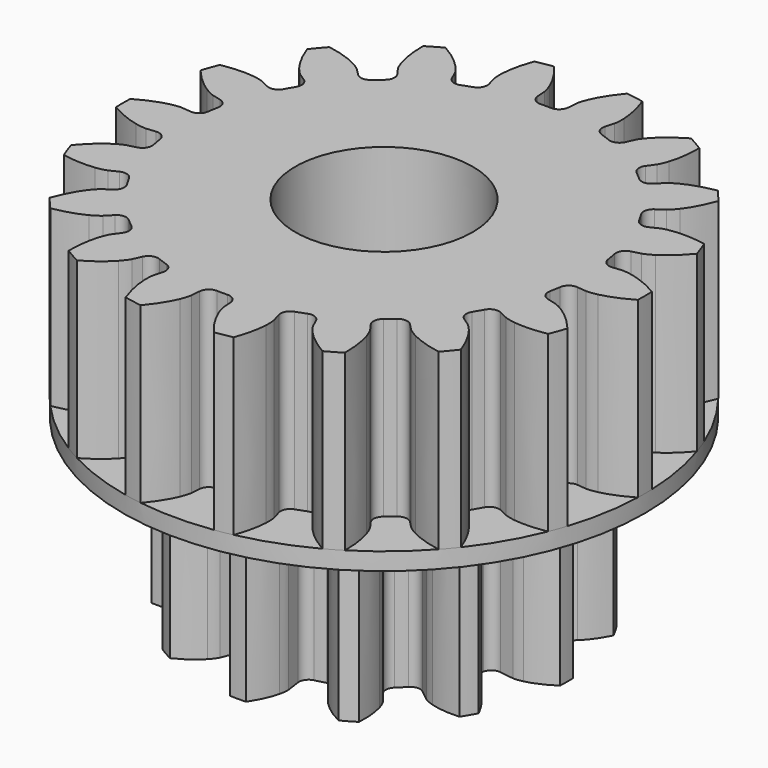
from build123d import *

# Parameters (mm, degrees)
PAD006_DEPTH    = 10
SKETCH009_R     = 15
PAD004_DEPTH    = 1
PAD005_DEPTH    = 10
SKETCH010_R     = 4
POCKET005_DEPTH = 22.001
SKETCH011_R     = 5.1
POCKET006_DEPTH = 7
SKETCH012_R     = 5.1
POCKET007_DEPTH = 7
CHAMFER006_SIZE = 1


with BuildPart() as pad004:
    # InvoluteGear001 → Pad006 (new body)
    with BuildSketch(Plane.XY):
        with BuildLine():
            Line((7.585543, -1.113908), (8.391342, -1.230997))
            add(Edge.make_bspline(
                [(8.391342, -1.230997), (8.453372, -1.235413), (8.639606, -1.239539), (8.952693, -1.168255)],
                knots=[0, 0, 0, 0, 1, 1, 1, 1], degree=3))
            add(Edge.make_bspline(
                [(8.952693, -1.168255), (9.32537, -1.081215), (9.856035, -0.88794), (10.49177, -0.464635)],
                knots=[0, 0, 0, 0, 1, 1, 1, 1], degree=3))
            ThreePointArc((10.49177, -0.464635), (10.502056, 0), (10.49177, 0.464635))
            add(Edge.make_bspline(
                [(10.49177, 0.464635), (9.856035, 0.88794), (9.32537, 1.081215), (8.952693, 1.168255)],
                knots=[0, 0, 0, 0, 1, 1, 1, 1], degree=3))
            add(Edge.make_bspline(
                [(8.952693, 1.168255), (8.639606, 1.239539), (8.453372, 1.235413), (8.391342, 1.230997)],
                knots=[0, 0, 0, 0, 1, 1, 1, 1], degree=3))
            Line((8.391342, 1.230997), (7.585543, 1.113908))
            ThreePointArc((7.585543, 1.113908), (7.1854, 1.20674), (6.955061, 1.546852))
            ThreePointArc((6.955061, 1.546852), (6.882222, 1.844086), (6.796685, 2.137918))
            ThreePointArc((6.796685, 2.137918), (6.826109, 2.547633), (7.126227, 2.828099))
            Line((7.126227, 2.828099), (7.882613, 3.129596))
            add(Edge.make_bspline(
                [(7.882613, 3.129596), (7.938542, 3.156787), (8.101888, 3.246331), (8.337387, 3.464608)],
                knots=[0, 0, 0, 0, 1, 1, 1, 1], degree=3))
            add(Edge.make_bspline(
                [(8.337387, 3.464608), (8.616615, 3.726326), (8.979547, 4.159039), (9.318457, 4.8435)],
                knots=[0, 0, 0, 0, 1, 1, 1, 1], degree=3))
            ThreePointArc((9.318457, 4.8435), (9.095047, 5.251028), (8.853822, 5.648271))
            add(Edge.make_bspline(
                [(8.853822, 5.648271), (8.091607, 5.696996), (7.5354, 5.599044), (7.169132, 5.488085)],
                knots=[0, 0, 0, 0, 1, 1, 1, 1], degree=3))
            add(Edge.make_bspline(
                [(7.169132, 5.488085), (6.862349, 5.393276), (6.703128, 5.296585), (6.651617, 5.261745)],
                knots=[0, 0, 0, 0, 1, 1, 1, 1], degree=3))
            Line((6.651617, 5.261745), (6.012319, 4.757444))
            ThreePointArc((6.012319, 4.757444), (5.619369, 4.637767), (5.249834, 4.817143))
            ThreePointArc((5.249834, 4.817143), (5.038136, 5.038136), (4.817143, 5.249834))
            ThreePointArc((4.817143, 5.249834), (4.637767, 5.619369), (4.757444, 6.012319))
            Line((4.757444, 6.012319), (5.261745, 6.651617))
            add(Edge.make_bspline(
                [(5.261745, 6.651617), (5.296585, 6.703128), (5.393276, 6.862349), (5.488085, 7.169132)],
                knots=[0, 0, 0, 0, 1, 1, 1, 1], degree=3))
            add(Edge.make_bspline(
                [(5.488085, 7.169132), (5.599044, 7.5354), (5.696996, 8.091607), (5.648271, 8.853822)],
                knots=[0, 0, 0, 0, 1, 1, 1, 1], degree=3))
            ThreePointArc((5.648271, 8.853822), (5.251028, 9.095047), (4.8435, 9.318457))
            add(Edge.make_bspline(
                [(4.8435, 9.318457), (4.159039, 8.979547), (3.726326, 8.616615), (3.464608, 8.337387)],
                knots=[0, 0, 0, 0, 1, 1, 1, 1], degree=3))
            add(Edge.make_bspline(
                [(3.464608, 8.337387), (3.246331, 8.101888), (3.156787, 7.938542), (3.129596, 7.882613)],
                knots=[0, 0, 0, 0, 1, 1, 1, 1], degree=3))
            Line((3.129596, 7.882613), (2.828099, 7.126227))
            ThreePointArc((2.828099, 7.126227), (2.547633, 6.826109), (2.137918, 6.796685))
            ThreePointArc((2.137918, 6.796685), (1.844086, 6.882222), (1.546852, 6.955061))
            ThreePointArc((1.546852, 6.955061), (1.20674, 7.1854), (1.113908, 7.585543))
            Line((1.113908, 7.585543), (1.230997, 8.391342))
            add(Edge.make_bspline(
                [(1.230997, 8.391342), (1.235413, 8.453372), (1.239539, 8.639606), (1.168255, 8.952693)],
                knots=[0, 0, 0, 0, 1, 1, 1, 1], degree=3))
            add(Edge.make_bspline(
                [(1.168255, 8.952693), (1.081215, 9.32537), (0.88794, 9.856035), (0.464635, 10.49177)],
                knots=[0, 0, 0, 0, 1, 1, 1, 1], degree=3))
            ThreePointArc((0.464635, 10.49177), (0, 10.502056), (-0.464635, 10.49177))
            add(Edge.make_bspline(
                [(-0.464635, 10.49177), (-0.88794, 9.856035), (-1.081215, 9.32537), (-1.168255, 8.952693)],
                knots=[0, 0, 0, 0, 1, 1, 1, 1], degree=3))
            add(Edge.make_bspline(
                [(-1.168255, 8.952693), (-1.239539, 8.639606), (-1.235413, 8.453372), (-1.230997, 8.391342)],
                knots=[0, 0, 0, 0, 1, 1, 1, 1], degree=3))
            Line((-1.230997, 8.391342), (-1.113908, 7.585543))
            ThreePointArc((-1.113908, 7.585543), (-1.20674, 7.1854), (-1.546852, 6.955061))
            ThreePointArc((-1.546852, 6.955061), (-1.844086, 6.882222), (-2.137918, 6.796685))
            ThreePointArc((-2.137918, 6.796685), (-2.547633, 6.826109), (-2.828099, 7.126227))
            Line((-2.828099, 7.126227), (-3.129596, 7.882613))
            add(Edge.make_bspline(
                [(-3.129596, 7.882613), (-3.156787, 7.938542), (-3.246331, 8.101888), (-3.464608, 8.337387)],
                knots=[0, 0, 0, 0, 1, 1, 1, 1], degree=3))
            add(Edge.make_bspline(
                [(-3.464608, 8.337387), (-3.726326, 8.616615), (-4.159039, 8.979547), (-4.8435, 9.318457)],
                knots=[0, 0, 0, 0, 1, 1, 1, 1], degree=3))
            ThreePointArc((-4.8435, 9.318457), (-5.251028, 9.095047), (-5.648271, 8.853822))
            add(Edge.make_bspline(
                [(-5.648271, 8.853822), (-5.696996, 8.091607), (-5.599044, 7.5354), (-5.488085, 7.169132)],
                knots=[0, 0, 0, 0, 1, 1, 1, 1], degree=3))
            add(Edge.make_bspline(
                [(-5.488085, 7.169132), (-5.393276, 6.862349), (-5.296585, 6.703128), (-5.261745, 6.651617)],
                knots=[0, 0, 0, 0, 1, 1, 1, 1], degree=3))
            Line((-5.261745, 6.651617), (-4.757444, 6.012319))
            ThreePointArc((-4.757444, 6.012319), (-4.637767, 5.619369), (-4.817143, 5.249834))
            ThreePointArc((-4.817143, 5.249834), (-5.038136, 5.038136), (-5.249834, 4.817143))
            ThreePointArc((-5.249834, 4.817143), (-5.619369, 4.637767), (-6.012319, 4.757444))
            Line((-6.012319, 4.757444), (-6.651617, 5.261745))
            add(Edge.make_bspline(
                [(-6.651617, 5.261745), (-6.703128, 5.296585), (-6.862349, 5.393276), (-7.169132, 5.488085)],
                knots=[0, 0, 0, 0, 1, 1, 1, 1], degree=3))
            add(Edge.make_bspline(
                [(-7.169132, 5.488085), (-7.5354, 5.599044), (-8.091607, 5.696996), (-8.853822, 5.648271)],
                knots=[0, 0, 0, 0, 1, 1, 1, 1], degree=3))
            ThreePointArc((-8.853822, 5.648271), (-9.095047, 5.251028), (-9.318457, 4.8435))
            add(Edge.make_bspline(
                [(-9.318457, 4.8435), (-8.979547, 4.159039), (-8.616615, 3.726326), (-8.337387, 3.464608)],
                knots=[0, 0, 0, 0, 1, 1, 1, 1], degree=3))
            add(Edge.make_bspline(
                [(-8.337387, 3.464608), (-8.101888, 3.246331), (-7.938542, 3.156787), (-7.882613, 3.129596)],
                knots=[0, 0, 0, 0, 1, 1, 1, 1], degree=3))
            Line((-7.882613, 3.129596), (-7.126227, 2.828099))
            ThreePointArc((-7.126227, 2.828099), (-6.826109, 2.547633), (-6.796685, 2.137918))
            ThreePointArc((-6.796685, 2.137918), (-6.882222, 1.844086), (-6.955061, 1.546852))
            ThreePointArc((-6.955061, 1.546852), (-7.1854, 1.20674), (-7.585543, 1.113908))
            Line((-7.585543, 1.113908), (-8.391342, 1.230997))
            add(Edge.make_bspline(
                [(-8.391342, 1.230997), (-8.453372, 1.235413), (-8.639606, 1.239539), (-8.952693, 1.168255)],
                knots=[0, 0, 0, 0, 1, 1, 1, 1], degree=3))
            add(Edge.make_bspline(
                [(-8.952693, 1.168255), (-9.32537, 1.081215), (-9.856035, 0.88794), (-10.49177, 0.464635)],
                knots=[0, 0, 0, 0, 1, 1, 1, 1], degree=3))
            ThreePointArc((-10.49177, 0.464635), (-10.502056, 0), (-10.49177, -0.464635))
            add(Edge.make_bspline(
                [(-10.49177, -0.464635), (-9.856035, -0.88794), (-9.32537, -1.081215), (-8.952693, -1.168255)],
                knots=[0, 0, 0, 0, 1, 1, 1, 1], degree=3))
            add(Edge.make_bspline(
                [(-8.952693, -1.168255), (-8.639606, -1.239539), (-8.453372, -1.235413), (-8.391342, -1.230997)],
                knots=[0, 0, 0, 0, 1, 1, 1, 1], degree=3))
            Line((-8.391342, -1.230997), (-7.585543, -1.113908))
            ThreePointArc((-7.585543, -1.113908), (-7.1854, -1.20674), (-6.955061, -1.546852))
            ThreePointArc((-6.955061, -1.546852), (-6.882222, -1.844086), (-6.796685, -2.137918))
            ThreePointArc((-6.796685, -2.137918), (-6.826109, -2.547633), (-7.126227, -2.828099))
            Line((-7.126227, -2.828099), (-7.882613, -3.129596))
            add(Edge.make_bspline(
                [(-7.882613, -3.129596), (-7.938542, -3.156787), (-8.101888, -3.246331), (-8.337387, -3.464608)],
                knots=[0, 0, 0, 0, 1, 1, 1, 1], degree=3))
            add(Edge.make_bspline(
                [(-8.337387, -3.464608), (-8.616615, -3.726326), (-8.979547, -4.159039), (-9.318457, -4.8435)],
                knots=[0, 0, 0, 0, 1, 1, 1, 1], degree=3))
            ThreePointArc((-9.318457, -4.8435), (-9.095047, -5.251028), (-8.853822, -5.648271))
            add(Edge.make_bspline(
                [(-8.853822, -5.648271), (-8.091607, -5.696996), (-7.5354, -5.599044), (-7.169132, -5.488085)],
                knots=[0, 0, 0, 0, 1, 1, 1, 1], degree=3))
            add(Edge.make_bspline(
                [(-7.169132, -5.488085), (-6.862349, -5.393276), (-6.703128, -5.296585), (-6.651617, -5.261745)],
                knots=[0, 0, 0, 0, 1, 1, 1, 1], degree=3))
            Line((-6.651617, -5.261745), (-6.012319, -4.757444))
            ThreePointArc((-6.012319, -4.757444), (-5.619369, -4.637767), (-5.249834, -4.817143))
            ThreePointArc((-5.249834, -4.817143), (-5.038136, -5.038136), (-4.817143, -5.249834))
            ThreePointArc((-4.817143, -5.249834), (-4.637767, -5.619369), (-4.757444, -6.012319))
            Line((-4.757444, -6.012319), (-5.261745, -6.651617))
            add(Edge.make_bspline(
                [(-5.261745, -6.651617), (-5.296585, -6.703128), (-5.393276, -6.862349), (-5.488085, -7.169132)],
                knots=[0, 0, 0, 0, 1, 1, 1, 1], degree=3))
            add(Edge.make_bspline(
                [(-5.488085, -7.169132), (-5.599044, -7.5354), (-5.696996, -8.091607), (-5.648271, -8.853822)],
                knots=[0, 0, 0, 0, 1, 1, 1, 1], degree=3))
            ThreePointArc((-5.648271, -8.853822), (-5.251028, -9.095047), (-4.8435, -9.318457))
            add(Edge.make_bspline(
                [(-4.8435, -9.318457), (-4.159039, -8.979547), (-3.726326, -8.616615), (-3.464608, -8.337387)],
                knots=[0, 0, 0, 0, 1, 1, 1, 1], degree=3))
            add(Edge.make_bspline(
                [(-3.464608, -8.337387), (-3.246331, -8.101888), (-3.156787, -7.938542), (-3.129596, -7.882613)],
                knots=[0, 0, 0, 0, 1, 1, 1, 1], degree=3))
            Line((-3.129596, -7.882613), (-2.828099, -7.126227))
            ThreePointArc((-2.828099, -7.126227), (-2.547633, -6.826109), (-2.137918, -6.796685))
            ThreePointArc((-2.137918, -6.796685), (-1.844086, -6.882222), (-1.546852, -6.955061))
            ThreePointArc((-1.546852, -6.955061), (-1.20674, -7.1854), (-1.113908, -7.585543))
            Line((-1.113908, -7.585543), (-1.230997, -8.391342))
            add(Edge.make_bspline(
                [(-1.230997, -8.391342), (-1.235413, -8.453372), (-1.239539, -8.639606), (-1.168255, -8.952693)],
                knots=[0, 0, 0, 0, 1, 1, 1, 1], degree=3))
            add(Edge.make_bspline(
                [(-1.168255, -8.952693), (-1.081215, -9.32537), (-0.88794, -9.856035), (-0.464635, -10.49177)],
                knots=[0, 0, 0, 0, 1, 1, 1, 1], degree=3))
            ThreePointArc((-0.464635, -10.49177), (0, -10.502056), (0.464635, -10.49177))
            add(Edge.make_bspline(
                [(0.464635, -10.49177), (0.88794, -9.856035), (1.081215, -9.32537), (1.168255, -8.952693)],
                knots=[0, 0, 0, 0, 1, 1, 1, 1], degree=3))
            add(Edge.make_bspline(
                [(1.168255, -8.952693), (1.239539, -8.639606), (1.235413, -8.453372), (1.230997, -8.391342)],
                knots=[0, 0, 0, 0, 1, 1, 1, 1], degree=3))
            Line((1.230997, -8.391342), (1.113908, -7.585543))
            ThreePointArc((1.113908, -7.585543), (1.20674, -7.1854), (1.546852, -6.955061))
            ThreePointArc((1.546852, -6.955061), (1.844086, -6.882222), (2.137918, -6.796685))
            ThreePointArc((2.137918, -6.796685), (2.547633, -6.826109), (2.828099, -7.126227))
            Line((2.828099, -7.126227), (3.129596, -7.882613))
            add(Edge.make_bspline(
                [(3.129596, -7.882613), (3.156787, -7.938542), (3.246331, -8.101888), (3.464608, -8.337387)],
                knots=[0, 0, 0, 0, 1, 1, 1, 1], degree=3))
            add(Edge.make_bspline(
                [(3.464608, -8.337387), (3.726326, -8.616615), (4.159039, -8.979547), (4.8435, -9.318457)],
                knots=[0, 0, 0, 0, 1, 1, 1, 1], degree=3))
            ThreePointArc((4.8435, -9.318457), (5.251028, -9.095047), (5.648271, -8.853822))
            add(Edge.make_bspline(
                [(5.648271, -8.853822), (5.696996, -8.091607), (5.599044, -7.5354), (5.488085, -7.169132)],
                knots=[0, 0, 0, 0, 1, 1, 1, 1], degree=3))
            add(Edge.make_bspline(
                [(5.488085, -7.169132), (5.393276, -6.862349), (5.296585, -6.703128), (5.261745, -6.651617)],
                knots=[0, 0, 0, 0, 1, 1, 1, 1], degree=3))
            Line((5.261745, -6.651617), (4.757444, -6.012319))
            ThreePointArc((4.757444, -6.012319), (4.637767, -5.619369), (4.817143, -5.249834))
            ThreePointArc((4.817143, -5.249834), (5.038136, -5.038136), (5.249834, -4.817143))
            ThreePointArc((5.249834, -4.817143), (5.619369, -4.637767), (6.012319, -4.757444))
            Line((6.012319, -4.757444), (6.651617, -5.261745))
            add(Edge.make_bspline(
                [(6.651617, -5.261745), (6.703128, -5.296585), (6.862349, -5.393276), (7.169132, -5.488085)],
                knots=[0, 0, 0, 0, 1, 1, 1, 1], degree=3))
            add(Edge.make_bspline(
                [(7.169132, -5.488085), (7.5354, -5.599044), (8.091607, -5.696996), (8.853822, -5.648271)],
                knots=[0, 0, 0, 0, 1, 1, 1, 1], degree=3))
            ThreePointArc((8.853822, -5.648271), (9.095047, -5.251028), (9.318457, -4.8435))
            add(Edge.make_bspline(
                [(9.318457, -4.8435), (8.979547, -4.159039), (8.616615, -3.726326), (8.337387, -3.464608)],
                knots=[0, 0, 0, 0, 1, 1, 1, 1], degree=3))
            add(Edge.make_bspline(
                [(8.337387, -3.464608), (8.101888, -3.246331), (7.938542, -3.156787), (7.882613, -3.129596)],
                knots=[0, 0, 0, 0, 1, 1, 1, 1], degree=3))
            Line((7.882613, -3.129596), (7.126227, -2.828099))
            ThreePointArc((7.126227, -2.828099), (6.826109, -2.547633), (6.796685, -2.137918))
            ThreePointArc((6.796685, -2.137918), (6.882222, -1.844086), (6.955061, -1.546852))
            ThreePointArc((6.955061, -1.546852), (7.1854, -1.20674), (7.585543, -1.113908))
        make_face()
    extrude(amount=-PAD006_DEPTH)

    # Sketch009 → Pad004 (new body)
    with BuildSketch(Plane.XY):
        Circle(SKETCH009_R)
    extrude(amount=PAD004_DEPTH)


with BuildPart() as chamfer006:
    # InvoluteGear → Pad005 (new body)
    with BuildSketch(Plane.XY.offset(1)):
        with BuildLine():
            Line((12.111023, -1.241717), (12.645761, -1.295402))
            add(Edge.make_bspline(
                [(12.645761, -1.295402), (12.714302, -1.298033), (12.920518, -1.29727), (13.264938, -1.221824)],
                knots=[0, 0, 0, 0, 1, 1, 1, 1], degree=3))
            add(Edge.make_bspline(
                [(13.264938, -1.221824), (13.676607, -1.130119), (14.26795, -0.932555), (14.993012, -0.510488)],
                knots=[0, 0, 0, 0, 1, 1, 1, 1], degree=3))
            ThreePointArc((14.993012, -0.510488), (15.001701, 0), (14.993012, 0.510488))
            add(Edge.make_bspline(
                [(14.993012, 0.510488), (14.26795, 0.932555), (13.676607, 1.130119), (13.264938, 1.221824)],
                knots=[0, 0, 0, 0, 1, 1, 1, 1], degree=3))
            add(Edge.make_bspline(
                [(13.264938, 1.221824), (12.920518, 1.29727), (12.714302, 1.298033), (12.645761, 1.295402)],
                knots=[0, 0, 0, 0, 1, 1, 1, 1], degree=3))
            Line((12.645761, 1.295402), (12.111023, 1.241717))
            ThreePointArc((12.111023, 1.241717), (11.708936, 1.356787), (11.497414, 1.717583))
            ThreePointArc((11.497414, 1.717583), (11.44839, 2.01866), (11.391483, 2.318347))
            ThreePointArc((11.391483, 2.318347), (11.46685, 2.729729), (11.805332, 2.975381))
            Line((11.805332, 2.975381), (12.326182, 3.107825))
            add(Edge.make_bspline(
                [(12.326182, 3.107825), (12.391489, 3.128796), (12.585008, 3.200042), (12.882853, 3.388737)],
                knots=[0, 0, 0, 0, 1, 1, 1, 1], degree=3))
            add(Edge.make_bspline(
                [(12.882853, 3.388737), (13.238331, 3.615711), (13.72644, 4.003611), (14.26342, 4.64821)],
                knots=[0, 0, 0, 0, 1, 1, 1, 1], degree=3))
            ThreePointArc((14.26342, 4.64821), (14.096988, 5.130884), (13.914226, 5.607614))
            add(Edge.make_bspline(
                [(13.914226, 5.607614), (13.088535, 5.756242), (12.465284, 5.73964), (12.047076, 5.685015)],
                knots=[0, 0, 0, 0, 1, 1, 1, 1], degree=3))
            add(Edge.make_bspline(
                [(12.047076, 5.685015), (11.697623, 5.638113), (11.503582, 5.568299), (11.440074, 5.542385)],
                knots=[0, 0, 0, 0, 1, 1, 1, 1], degree=3))
            Line((11.440074, 5.542385), (10.955947, 5.309046))
            ThreePointArc((10.955947, 5.309046), (10.538753, 5.279655), (10.216587, 5.546347))
            ThreePointArc((10.216587, 5.546347), (10.067545, 5.8125), (9.911571, 6.074651))
            ThreePointArc((9.911571, 6.074651), (9.841692, 6.487), (10.075743, 6.833605))
            Line((10.075743, 6.833605), (10.519883, 7.136202))
            add(Edge.make_bspline(
                [(10.519883, 7.136202), (10.57408, 7.178245), (10.73156, 7.311383), (10.946905, 7.590566)],
                knots=[0, 0, 0, 0, 1, 1, 1, 1], degree=3))
            add(Edge.make_bspline(
                [(10.946905, 7.590566), (11.203316, 7.925433), (11.529319, 8.456883), (11.813449, 9.246266)],
                knots=[0, 0, 0, 0, 1, 1, 1, 1], degree=3))
            ThreePointArc((11.813449, 9.246266), (11.49197, 9.642908), (11.157178, 10.028379))
            add(Edge.make_bspline(
                [(11.157178, 10.028379), (10.330449, 9.885641), (9.750463, 9.656875), (9.376159, 9.462509)],
                knots=[0, 0, 0, 0, 1, 1, 1, 1], degree=3))
            add(Edge.make_bspline(
                [(9.376159, 9.462509), (9.063822, 9.298916), (8.905361, 9.166947), (8.854546, 9.120874)],
                knots=[0, 0, 0, 0, 1, 1, 1, 1], degree=3))
            Line((8.854546, 9.120874), (8.479422, 8.736026))
            ThreePointArc((8.479422, 8.736026), (8.09744, 8.565718), (7.703489, 8.70614))
            ThreePointArc((7.703489, 8.70614), (7.472406, 8.905267), (7.236177, 9.098261))
            ThreePointArc((7.236177, 9.098261), (7.02948, 9.461843), (7.13087, 9.867595))
            Line((7.13087, 9.867595), (7.444732, 10.303849))
            add(Edge.make_bspline(
                [(7.444732, 10.303849), (7.48128, 10.361892), (7.583728, 10.540862), (7.690599, 10.876861)],
                knots=[0, 0, 0, 0, 1, 1, 1, 1], degree=3))
            add(Edge.make_bspline(
                [(7.690599, 10.876861), (7.817015, 11.27923), (7.941592, 11.89013), (7.938602, 12.729085)],
                knots=[0, 0, 0, 0, 1, 1, 1, 1], degree=3))
            ThreePointArc((7.938602, 12.729085), (7.500851, 12.991854), (7.05441, 13.239573))
            add(Edge.make_bspline(
                [(7.05441, 13.239573), (6.326359, 12.822685), (5.859592, 12.409349), (5.574338, 12.098685)],
                knots=[0, 0, 0, 0, 1, 1, 1, 1], degree=3))
            add(Edge.make_bspline(
                [(5.574338, 12.098685), (5.33679, 11.838132), (5.233022, 11.659925), (5.201029, 11.599251)],
                knots=[0, 0, 0, 0, 1, 1, 1, 1], degree=3))
            Line((5.201029, 11.599251), (4.980153, 11.109313))
            ThreePointArc((4.980153, 11.109313), (4.679456, 10.81863), (4.261237, 10.815844))
            ThreePointArc((4.261237, 10.815844), (3.975984, 10.923927), (3.687994, 11.024488))
            ThreePointArc((3.687994, 11.024488), (3.36941, 11.295448), (3.32591, 11.711408))
            Line((3.32591, 11.711408), (3.471636, 12.228699))
            add(Edge.make_bspline(
                [(3.471636, 12.228699), (3.486128, 12.295742), (3.521186, 12.498958), (3.506694, 12.851246)],
                knots=[0, 0, 0, 0, 1, 1, 1, 1], degree=3))
            add(Edge.make_bspline(
                [(3.506694, 12.851246), (3.487868, 13.272586), (3.395991, 13.889252), (3.106242, 14.676589)],
                knots=[0, 0, 0, 0, 1, 1, 1, 1], degree=3))
            ThreePointArc((3.106242, 14.676589), (2.605018, 14.773792), (2.100777, 14.85388))
            add(Edge.make_bspline(
                [(2.100777, 14.85388), (1.559216, 14.213125), (1.261968, 13.665072), (1.100171, 13.275581)],
                knots=[0, 0, 0, 0, 1, 1, 1, 1], degree=3))
            add(Edge.make_bspline(
                [(1.100171, 13.275581), (0.966063, 12.949495), (0.929503, 12.746544), (0.920191, 12.678587)],
                knots=[0, 0, 0, 0, 1, 1, 1, 1], degree=3))
            Line((0.920191, 12.678587), (0.880204, 12.142652))
            ThreePointArc((0.880204, 12.142652), (0.697061, 11.766655), (0.305016, 11.620998))
            ThreePointArc((0.305016, 11.620998), (0, 11.625), (-0.305016, 11.620998))
            ThreePointArc((-0.305016, 11.620998), (-0.697061, 11.766655), (-0.880204, 12.142652))
            Line((-0.880204, 12.142652), (-0.920191, 12.678587))
            add(Edge.make_bspline(
                [(-0.920191, 12.678587), (-0.929503, 12.746544), (-0.966063, 12.949495), (-1.100171, 13.275581)],
                knots=[0, 0, 0, 0, 1, 1, 1, 1], degree=3))
            add(Edge.make_bspline(
                [(-1.100171, 13.275581), (-1.261968, 13.665072), (-1.559216, 14.213125), (-2.100777, 14.85388)],
                knots=[0, 0, 0, 0, 1, 1, 1, 1], degree=3))
            ThreePointArc((-2.100777, 14.85388), (-2.605018, 14.773792), (-3.106242, 14.676589))
            add(Edge.make_bspline(
                [(-3.106242, 14.676589), (-3.395991, 13.889252), (-3.487868, 13.272586), (-3.506694, 12.851246)],
                knots=[0, 0, 0, 0, 1, 1, 1, 1], degree=3))
            add(Edge.make_bspline(
                [(-3.506694, 12.851246), (-3.521186, 12.498958), (-3.486128, 12.295742), (-3.471636, 12.228699)],
                knots=[0, 0, 0, 0, 1, 1, 1, 1], degree=3))
            Line((-3.471636, 12.228699), (-3.32591, 11.711408))
            ThreePointArc((-3.32591, 11.711408), (-3.36941, 11.295448), (-3.687994, 11.024488))
            ThreePointArc((-3.687994, 11.024488), (-3.975984, 10.923927), (-4.261237, 10.815844))
            ThreePointArc((-4.261237, 10.815844), (-4.679456, 10.81863), (-4.980153, 11.109313))
            Line((-4.980153, 11.109313), (-5.201029, 11.599251))
            add(Edge.make_bspline(
                [(-5.201029, 11.599251), (-5.233022, 11.659925), (-5.33679, 11.838132), (-5.574338, 12.098685)],
                knots=[0, 0, 0, 0, 1, 1, 1, 1], degree=3))
            add(Edge.make_bspline(
                [(-5.574338, 12.098685), (-5.859592, 12.409349), (-6.326359, 12.822685), (-7.05441, 13.239573)],
                knots=[0, 0, 0, 0, 1, 1, 1, 1], degree=3))
            ThreePointArc((-7.05441, 13.239573), (-7.500851, 12.991854), (-7.938602, 12.729085))
            add(Edge.make_bspline(
                [(-7.938602, 12.729085), (-7.941592, 11.89013), (-7.817015, 11.27923), (-7.690599, 10.876861)],
                knots=[0, 0, 0, 0, 1, 1, 1, 1], degree=3))
            add(Edge.make_bspline(
                [(-7.690599, 10.876861), (-7.583728, 10.540862), (-7.48128, 10.361892), (-7.444732, 10.303849)],
                knots=[0, 0, 0, 0, 1, 1, 1, 1], degree=3))
            Line((-7.444732, 10.303849), (-7.13087, 9.867595))
            ThreePointArc((-7.13087, 9.867595), (-7.02948, 9.461843), (-7.236177, 9.098261))
            ThreePointArc((-7.236177, 9.098261), (-7.472406, 8.905267), (-7.703489, 8.70614))
            ThreePointArc((-7.703489, 8.70614), (-8.09744, 8.565718), (-8.479422, 8.736026))
            Line((-8.479422, 8.736026), (-8.854546, 9.120874))
            add(Edge.make_bspline(
                [(-8.854546, 9.120874), (-8.905361, 9.166947), (-9.063822, 9.298916), (-9.376159, 9.462509)],
                knots=[0, 0, 0, 0, 1, 1, 1, 1], degree=3))
            add(Edge.make_bspline(
                [(-9.376159, 9.462509), (-9.750463, 9.656875), (-10.330449, 9.885641), (-11.157178, 10.028379)],
                knots=[0, 0, 0, 0, 1, 1, 1, 1], degree=3))
            ThreePointArc((-11.157178, 10.028379), (-11.49197, 9.642908), (-11.813449, 9.246266))
            add(Edge.make_bspline(
                [(-11.813449, 9.246266), (-11.529319, 8.456883), (-11.203316, 7.925433), (-10.946905, 7.590566)],
                knots=[0, 0, 0, 0, 1, 1, 1, 1], degree=3))
            add(Edge.make_bspline(
                [(-10.946905, 7.590566), (-10.73156, 7.311383), (-10.57408, 7.178245), (-10.519883, 7.136202)],
                knots=[0, 0, 0, 0, 1, 1, 1, 1], degree=3))
            Line((-10.519883, 7.136202), (-10.075743, 6.833605))
            ThreePointArc((-10.075743, 6.833605), (-9.841692, 6.487), (-9.911571, 6.074651))
            ThreePointArc((-9.911571, 6.074651), (-10.067545, 5.8125), (-10.216587, 5.546347))
            ThreePointArc((-10.216587, 5.546347), (-10.538753, 5.279655), (-10.955947, 5.309046))
            Line((-10.955947, 5.309046), (-11.440074, 5.542385))
            add(Edge.make_bspline(
                [(-11.440074, 5.542385), (-11.503582, 5.568299), (-11.697623, 5.638113), (-12.047076, 5.685015)],
                knots=[0, 0, 0, 0, 1, 1, 1, 1], degree=3))
            add(Edge.make_bspline(
                [(-12.047076, 5.685015), (-12.465284, 5.73964), (-13.088535, 5.756242), (-13.914226, 5.607614)],
                knots=[0, 0, 0, 0, 1, 1, 1, 1], degree=3))
            ThreePointArc((-13.914226, 5.607614), (-14.096988, 5.130884), (-14.26342, 4.64821))
            add(Edge.make_bspline(
                [(-14.26342, 4.64821), (-13.72644, 4.003611), (-13.238331, 3.615711), (-12.882853, 3.388737)],
                knots=[0, 0, 0, 0, 1, 1, 1, 1], degree=3))
            add(Edge.make_bspline(
                [(-12.882853, 3.388737), (-12.585008, 3.200042), (-12.391489, 3.128796), (-12.326182, 3.107825)],
                knots=[0, 0, 0, 0, 1, 1, 1, 1], degree=3))
            Line((-12.326182, 3.107825), (-11.805332, 2.975381))
            ThreePointArc((-11.805332, 2.975381), (-11.46685, 2.729729), (-11.391483, 2.318347))
            ThreePointArc((-11.391483, 2.318347), (-11.44839, 2.01866), (-11.497414, 1.717583))
            ThreePointArc((-11.497414, 1.717583), (-11.708936, 1.356787), (-12.111023, 1.241717))
            Line((-12.111023, 1.241717), (-12.645761, 1.295402))
            add(Edge.make_bspline(
                [(-12.645761, 1.295402), (-12.714302, 1.298033), (-12.920518, 1.29727), (-13.264938, 1.221824)],
                knots=[0, 0, 0, 0, 1, 1, 1, 1], degree=3))
            add(Edge.make_bspline(
                [(-13.264938, 1.221824), (-13.676607, 1.130119), (-14.26795, 0.932555), (-14.993012, 0.510488)],
                knots=[0, 0, 0, 0, 1, 1, 1, 1], degree=3))
            ThreePointArc((-14.993012, 0.510488), (-15.001701, 0), (-14.993012, -0.510488))
            add(Edge.make_bspline(
                [(-14.993012, -0.510488), (-14.26795, -0.932555), (-13.676607, -1.130119), (-13.264938, -1.221824)],
                knots=[0, 0, 0, 0, 1, 1, 1, 1], degree=3))
            add(Edge.make_bspline(
                [(-13.264938, -1.221824), (-12.920518, -1.29727), (-12.714302, -1.298033), (-12.645761, -1.295402)],
                knots=[0, 0, 0, 0, 1, 1, 1, 1], degree=3))
            Line((-12.645761, -1.295402), (-12.111023, -1.241717))
            ThreePointArc((-12.111023, -1.241717), (-11.708936, -1.356787), (-11.497414, -1.717583))
            ThreePointArc((-11.497414, -1.717583), (-11.44839, -2.01866), (-11.391483, -2.318347))
            ThreePointArc((-11.391483, -2.318347), (-11.46685, -2.729729), (-11.805332, -2.975381))
            Line((-11.805332, -2.975381), (-12.326182, -3.107825))
            add(Edge.make_bspline(
                [(-12.326182, -3.107825), (-12.391489, -3.128796), (-12.585008, -3.200042), (-12.882853, -3.388737)],
                knots=[0, 0, 0, 0, 1, 1, 1, 1], degree=3))
            add(Edge.make_bspline(
                [(-12.882853, -3.388737), (-13.238331, -3.615711), (-13.72644, -4.003611), (-14.26342, -4.64821)],
                knots=[0, 0, 0, 0, 1, 1, 1, 1], degree=3))
            ThreePointArc((-14.26342, -4.64821), (-14.096988, -5.130884), (-13.914226, -5.607614))
            add(Edge.make_bspline(
                [(-13.914226, -5.607614), (-13.088535, -5.756242), (-12.465284, -5.73964), (-12.047076, -5.685015)],
                knots=[0, 0, 0, 0, 1, 1, 1, 1], degree=3))
            add(Edge.make_bspline(
                [(-12.047076, -5.685015), (-11.697623, -5.638113), (-11.503582, -5.568299), (-11.440074, -5.542385)],
                knots=[0, 0, 0, 0, 1, 1, 1, 1], degree=3))
            Line((-11.440074, -5.542385), (-10.955947, -5.309046))
            ThreePointArc((-10.955947, -5.309046), (-10.538753, -5.279655), (-10.216587, -5.546347))
            ThreePointArc((-10.216587, -5.546347), (-10.067545, -5.8125), (-9.911571, -6.074651))
            ThreePointArc((-9.911571, -6.074651), (-9.841692, -6.487), (-10.075743, -6.833605))
            Line((-10.075743, -6.833605), (-10.519883, -7.136202))
            add(Edge.make_bspline(
                [(-10.519883, -7.136202), (-10.57408, -7.178245), (-10.73156, -7.311383), (-10.946905, -7.590566)],
                knots=[0, 0, 0, 0, 1, 1, 1, 1], degree=3))
            add(Edge.make_bspline(
                [(-10.946905, -7.590566), (-11.203316, -7.925433), (-11.529319, -8.456883), (-11.813449, -9.246266)],
                knots=[0, 0, 0, 0, 1, 1, 1, 1], degree=3))
            ThreePointArc((-11.813449, -9.246266), (-11.49197, -9.642908), (-11.157178, -10.028379))
            add(Edge.make_bspline(
                [(-11.157178, -10.028379), (-10.330449, -9.885641), (-9.750463, -9.656875), (-9.376159, -9.462509)],
                knots=[0, 0, 0, 0, 1, 1, 1, 1], degree=3))
            add(Edge.make_bspline(
                [(-9.376159, -9.462509), (-9.063822, -9.298916), (-8.905361, -9.166947), (-8.854546, -9.120874)],
                knots=[0, 0, 0, 0, 1, 1, 1, 1], degree=3))
            Line((-8.854546, -9.120874), (-8.479422, -8.736026))
            ThreePointArc((-8.479422, -8.736026), (-8.09744, -8.565718), (-7.703489, -8.70614))
            ThreePointArc((-7.703489, -8.70614), (-7.472406, -8.905267), (-7.236177, -9.098261))
            ThreePointArc((-7.236177, -9.098261), (-7.02948, -9.461843), (-7.13087, -9.867595))
            Line((-7.13087, -9.867595), (-7.444732, -10.303849))
            add(Edge.make_bspline(
                [(-7.444732, -10.303849), (-7.48128, -10.361892), (-7.583728, -10.540862), (-7.690599, -10.876861)],
                knots=[0, 0, 0, 0, 1, 1, 1, 1], degree=3))
            add(Edge.make_bspline(
                [(-7.690599, -10.876861), (-7.817015, -11.27923), (-7.941592, -11.89013), (-7.938602, -12.729085)],
                knots=[0, 0, 0, 0, 1, 1, 1, 1], degree=3))
            ThreePointArc((-7.938602, -12.729085), (-7.500851, -12.991854), (-7.05441, -13.239573))
            add(Edge.make_bspline(
                [(-7.05441, -13.239573), (-6.326359, -12.822685), (-5.859592, -12.409349), (-5.574338, -12.098685)],
                knots=[0, 0, 0, 0, 1, 1, 1, 1], degree=3))
            add(Edge.make_bspline(
                [(-5.574338, -12.098685), (-5.33679, -11.838132), (-5.233022, -11.659925), (-5.201029, -11.599251)],
                knots=[0, 0, 0, 0, 1, 1, 1, 1], degree=3))
            Line((-5.201029, -11.599251), (-4.980153, -11.109313))
            ThreePointArc((-4.980153, -11.109313), (-4.679456, -10.81863), (-4.261237, -10.815844))
            ThreePointArc((-4.261237, -10.815844), (-3.975984, -10.923927), (-3.687994, -11.024488))
            ThreePointArc((-3.687994, -11.024488), (-3.36941, -11.295448), (-3.32591, -11.711408))
            Line((-3.32591, -11.711408), (-3.471636, -12.228699))
            add(Edge.make_bspline(
                [(-3.471636, -12.228699), (-3.486128, -12.295742), (-3.521186, -12.498958), (-3.506694, -12.851246)],
                knots=[0, 0, 0, 0, 1, 1, 1, 1], degree=3))
            add(Edge.make_bspline(
                [(-3.506694, -12.851246), (-3.487868, -13.272586), (-3.395991, -13.889252), (-3.106242, -14.676589)],
                knots=[0, 0, 0, 0, 1, 1, 1, 1], degree=3))
            ThreePointArc((-3.106242, -14.676589), (-2.605018, -14.773792), (-2.100777, -14.85388))
            add(Edge.make_bspline(
                [(-2.100777, -14.85388), (-1.559216, -14.213125), (-1.261968, -13.665072), (-1.100171, -13.275581)],
                knots=[0, 0, 0, 0, 1, 1, 1, 1], degree=3))
            add(Edge.make_bspline(
                [(-1.100171, -13.275581), (-0.966063, -12.949495), (-0.929503, -12.746544), (-0.920191, -12.678587)],
                knots=[0, 0, 0, 0, 1, 1, 1, 1], degree=3))
            Line((-0.920191, -12.678587), (-0.880204, -12.142652))
            ThreePointArc((-0.880204, -12.142652), (-0.697061, -11.766655), (-0.305016, -11.620998))
            ThreePointArc((-0.305016, -11.620998), (0, -11.625), (0.305016, -11.620998))
            ThreePointArc((0.305016, -11.620998), (0.697061, -11.766655), (0.880204, -12.142652))
            Line((0.880204, -12.142652), (0.920191, -12.678587))
            add(Edge.make_bspline(
                [(0.920191, -12.678587), (0.929503, -12.746544), (0.966063, -12.949495), (1.100171, -13.275581)],
                knots=[0, 0, 0, 0, 1, 1, 1, 1], degree=3))
            add(Edge.make_bspline(
                [(1.100171, -13.275581), (1.261968, -13.665072), (1.559216, -14.213125), (2.100777, -14.85388)],
                knots=[0, 0, 0, 0, 1, 1, 1, 1], degree=3))
            ThreePointArc((2.100777, -14.85388), (2.605018, -14.773792), (3.106242, -14.676589))
            add(Edge.make_bspline(
                [(3.106242, -14.676589), (3.395991, -13.889252), (3.487868, -13.272586), (3.506694, -12.851246)],
                knots=[0, 0, 0, 0, 1, 1, 1, 1], degree=3))
            add(Edge.make_bspline(
                [(3.506694, -12.851246), (3.521186, -12.498958), (3.486128, -12.295742), (3.471636, -12.228699)],
                knots=[0, 0, 0, 0, 1, 1, 1, 1], degree=3))
            Line((3.471636, -12.228699), (3.32591, -11.711408))
            ThreePointArc((3.32591, -11.711408), (3.36941, -11.295448), (3.687994, -11.024488))
            ThreePointArc((3.687994, -11.024488), (3.975984, -10.923927), (4.261237, -10.815844))
            ThreePointArc((4.261237, -10.815844), (4.679456, -10.81863), (4.980153, -11.109313))
            Line((4.980153, -11.109313), (5.201029, -11.599251))
            add(Edge.make_bspline(
                [(5.201029, -11.599251), (5.233022, -11.659925), (5.33679, -11.838132), (5.574338, -12.098685)],
                knots=[0, 0, 0, 0, 1, 1, 1, 1], degree=3))
            add(Edge.make_bspline(
                [(5.574338, -12.098685), (5.859592, -12.409349), (6.326359, -12.822685), (7.05441, -13.239573)],
                knots=[0, 0, 0, 0, 1, 1, 1, 1], degree=3))
            ThreePointArc((7.05441, -13.239573), (7.500851, -12.991854), (7.938602, -12.729085))
            add(Edge.make_bspline(
                [(7.938602, -12.729085), (7.941592, -11.89013), (7.817015, -11.27923), (7.690599, -10.876861)],
                knots=[0, 0, 0, 0, 1, 1, 1, 1], degree=3))
            add(Edge.make_bspline(
                [(7.690599, -10.876861), (7.583728, -10.540862), (7.48128, -10.361892), (7.444732, -10.303849)],
                knots=[0, 0, 0, 0, 1, 1, 1, 1], degree=3))
            Line((7.444732, -10.303849), (7.13087, -9.867595))
            ThreePointArc((7.13087, -9.867595), (7.02948, -9.461843), (7.236177, -9.098261))
            ThreePointArc((7.236177, -9.098261), (7.472406, -8.905267), (7.703489, -8.70614))
            ThreePointArc((7.703489, -8.70614), (8.09744, -8.565718), (8.479422, -8.736026))
            Line((8.479422, -8.736026), (8.854546, -9.120874))
            add(Edge.make_bspline(
                [(8.854546, -9.120874), (8.905361, -9.166947), (9.063822, -9.298916), (9.376159, -9.462509)],
                knots=[0, 0, 0, 0, 1, 1, 1, 1], degree=3))
            add(Edge.make_bspline(
                [(9.376159, -9.462509), (9.750463, -9.656875), (10.330449, -9.885641), (11.157178, -10.028379)],
                knots=[0, 0, 0, 0, 1, 1, 1, 1], degree=3))
            ThreePointArc((11.157178, -10.028379), (11.49197, -9.642908), (11.813449, -9.246266))
            add(Edge.make_bspline(
                [(11.813449, -9.246266), (11.529319, -8.456883), (11.203316, -7.925433), (10.946905, -7.590566)],
                knots=[0, 0, 0, 0, 1, 1, 1, 1], degree=3))
            add(Edge.make_bspline(
                [(10.946905, -7.590566), (10.73156, -7.311383), (10.57408, -7.178245), (10.519883, -7.136202)],
                knots=[0, 0, 0, 0, 1, 1, 1, 1], degree=3))
            Line((10.519883, -7.136202), (10.075743, -6.833605))
            ThreePointArc((10.075743, -6.833605), (9.841692, -6.487), (9.911571, -6.074651))
            ThreePointArc((9.911571, -6.074651), (10.067545, -5.8125), (10.216587, -5.546347))
            ThreePointArc((10.216587, -5.546347), (10.538753, -5.279655), (10.955947, -5.309046))
            Line((10.955947, -5.309046), (11.440074, -5.542385))
            add(Edge.make_bspline(
                [(11.440074, -5.542385), (11.503582, -5.568299), (11.697623, -5.638113), (12.047076, -5.685015)],
                knots=[0, 0, 0, 0, 1, 1, 1, 1], degree=3))
            add(Edge.make_bspline(
                [(12.047076, -5.685015), (12.465284, -5.73964), (13.088535, -5.756242), (13.914226, -5.607614)],
                knots=[0, 0, 0, 0, 1, 1, 1, 1], degree=3))
            ThreePointArc((13.914226, -5.607614), (14.096988, -5.130884), (14.26342, -4.64821))
            add(Edge.make_bspline(
                [(14.26342, -4.64821), (13.72644, -4.003611), (13.238331, -3.615711), (12.882853, -3.388737)],
                knots=[0, 0, 0, 0, 1, 1, 1, 1], degree=3))
            add(Edge.make_bspline(
                [(12.882853, -3.388737), (12.585008, -3.200042), (12.391489, -3.128796), (12.326182, -3.107825)],
                knots=[0, 0, 0, 0, 1, 1, 1, 1], degree=3))
            Line((12.326182, -3.107825), (11.805332, -2.975381))
            ThreePointArc((11.805332, -2.975381), (11.46685, -2.729729), (11.391483, -2.318347))
            ThreePointArc((11.391483, -2.318347), (11.44839, -2.01866), (11.497414, -1.717583))
            ThreePointArc((11.497414, -1.717583), (11.708936, -1.356787), (12.111023, -1.241717))
        make_face()
    extrude(amount=PAD005_DEPTH)

    # Fusion: union Pad004
    add(pad004.part)

    # Sketch010 → Pocket005 (cut, through all)
    with BuildSketch(Plane(origin=(0, 0, -11), x_dir=(1, 0, 0), z_dir=(0, 0, -1))):
        Circle(SKETCH010_R)
    extrude(amount=-POCKET005_DEPTH, mode=Mode.SUBTRACT)

    # Sketch011 → Pocket006 (cut)
    with BuildSketch(Plane(origin=(0, 0, -10), x_dir=(1, 0, 0), z_dir=(0, 0, -1))):
        Circle(SKETCH011_R)
    extrude(amount=-POCKET006_DEPTH, mode=Mode.SUBTRACT)

    # Sketch012 → Pocket007 (cut)
    with BuildSketch(Plane.XY.offset(11)):
        Circle(SKETCH012_R)
    extrude(amount=-POCKET007_DEPTH, mode=Mode.SUBTRACT)

    # Chamfer006
    chamfer006_edges = [chamfer006.edges().sort_by_distance(p)[0] for p in [
        (-4, 0, 4),
    ]]
    chamfer(chamfer006_edges, length=CHAMFER006_SIZE)


solid = chamfer006.part
